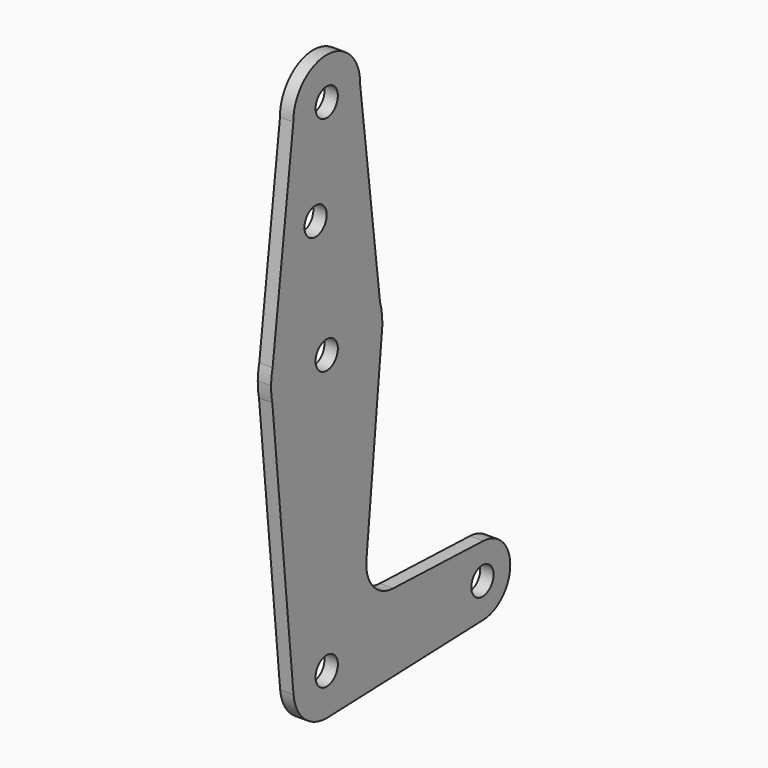
from build123d import *

# Parameters (mm, degrees)
F0_R     = 3.175
F1_DEPTH = 3.048


with BuildPart() as f1:
    # F0 (on Right) → F1 (new body)
    with BuildSketch(Plane.YZ):
        with BuildLine():
            ThreePointArc((0.6773435479, -64.6379463686), (6.9705567315, -61.6283596709), (9.525, -55.1370605826))
            ThreePointArc((9.525, -55.1370605826), (6.9705567315, -48.6457614944), (0.6773435479, -45.6361747967))
            Line((0.6773435479, -45.6361747967), (0, -45.6120605826))
            ThreePointArc((0, -45.6120605826), (-7.0587369412, -48.7417609184), (-9.4787901291, -56.0741639328))
            ThreePointArc((-9.4787901291, -56.0741639328), (-6.3952996642, -62.1957975238), (0, -64.6620605826))
            Line((0, -64.6620605826), (0.6773435479, -64.6379463686))
        make_face()
        with Locations((0, -55.1370605826)):
            Circle(F0_R, mode=Mode.SUBTRACT)
        with BuildLine():
            ThreePointArc((0.6773435479, -45.6361747967), (6.9705567315, -48.6457614944), (9.525, -55.1370605826))
            Line((9.525, -55.1370605826), (36.5125, -55.1370605826))
            ThreePointArc((36.5125, -55.1370605826), (38.9380895153, -49.4254277987), (44.7324052746, -47.2045859681))
            Line((44.7324052746, -47.2045859681), (18.9622864446, -46.2871399204))
            ThreePointArc((18.9622864446, -46.2871399204), (13.2560088734, -43.5703522208), (11.3345374572, -37.5495145115))
            Line((11.3345374572, -37.5495145115), (15.6952781554, 5.980951041))
            ThreePointArc((15.6952781554, 5.980951041), (0.4897142026, -7.504505399), (-15.5185167862, 5.017605091))
            Line((-15.5185167862, 5.017605091), (-9.4787901291, -56.0741639328))
            ThreePointArc((-9.4787901291, -56.0741639328), (-7.0587369412, -48.7417609184), (0, -45.6120605826))
            ThreePointArc((0, -45.6120605826), (0.3388863295, -45.6180910451), (0.6773435479, -45.6361747967))
        make_face()
        with BuildLine():
            Line((36.5125, -55.1370605826), (9.525, -55.1370605826))
            ThreePointArc((9.525, -55.1370605826), (6.9705567315, -61.6283596709), (0.6773435479, -64.6379463686))
            Line((0.6773435479, -64.6379463686), (44.7324052746, -63.0695351972))
            ThreePointArc((44.7324052746, -63.0695351972), (38.9380895153, -60.8486933666), (36.5125, -55.1370605826))
        make_face()
        with BuildLine():
            ThreePointArc((44.7324052746, -47.2045859681), (38.9380895153, -49.4254277987), (36.5125, -55.1370605826))
            ThreePointArc((36.5125, -55.1370605826), (38.9380895153, -60.8486933666), (44.7324052746, -63.0695351972))
            ThreePointArc((44.7324052746, -63.0695351972), (50.1616327839, -60.6489710674), (52.3875, -55.1370605826))
            ThreePointArc((52.3875, -55.1370605826), (50.1616327839, -49.6251500979), (44.7324052746, -47.2045859681))
        make_face()
        with BuildLine():
            ThreePointArc((47.625, -55.1370605826), (44.45, -58.3120605826), (41.275, -55.1370605826))
            ThreePointArc((41.275, -55.1370605826), (44.45, -51.9620605826), (47.625, -55.1370605826))
        make_face(mode=Mode.SUBTRACT)
        with BuildLine():
            ThreePointArc((0, -64.6620605826), (0.3388863295, -64.6560301201), (0.6773435479, -64.6379463686))
            Line((0.6773435479, -64.6379463686), (0, -64.6620605826))
        make_face()
        with BuildLine():
            Line((-15.8731575899, 8.6047929382), (-15.5185167862, 5.017605091))
            ThreePointArc((-15.5185167862, 5.017605091), (0.4897142026, -7.504505399), (15.6952781554, 5.980951041))
            Line((15.6952781554, 5.980951041), (15.8558898592, 7.5842342268))
            Line((15.8558898592, 7.5842342268), (15.1941353847, 12.9622735988))
            ThreePointArc((15.1941353847, 12.9622735988), (-0.4660984971, 24.2310954914), (-15.437900841, 12.0625127204))
            Line((-15.437900841, 12.0625127204), (-15.8731575899, 8.6047929382))
        make_face()
        with Locations((0, 8.3629394174)):
            Circle(F0_R, mode=Mode.SUBTRACT)
        with BuildLine():
            ThreePointArc((-15.8731575899, 8.6047929382), (-15.7979835485, 6.8011005004), (-15.5185167862, 5.017605091))
            Line((-15.5185167862, 5.017605091), (-15.8731575899, 8.6047929382))
        make_face()
        with BuildLine():
            Line((15.8558898592, 7.5842342268), (15.6952781554, 5.980951041))
            ThreePointArc((15.6952781554, 5.980951041), (15.795938719, 6.780553565), (15.8558898592, 7.5842342268))
        make_face()
        with BuildLine():
            ThreePointArc((-15.437900841, 12.0625127204), (-15.7507000333, 10.3456329039), (-15.8731575899, 8.6047929382))
            Line((-15.8731575899, 8.6047929382), (-15.437900841, 12.0625127204))
        make_face()
        with BuildLine():
            Line((15.1941353847, 12.9622735988), (15.8558898592, 7.5842342268))
            ThreePointArc((15.8558898592, 7.5842342268), (15.8702217457, 7.9734695946), (15.875, 8.3629394174))
            ThreePointArc((15.875, 8.3629394174), (15.703861376, 10.6876679788), (15.1941353847, 12.9622735988))
        make_face()
        with BuildLine():
            Line((-9.5242234197, 59.0413119092), (-15.437900841, 12.0625127204))
            ThreePointArc((-15.437900841, 12.0625127204), (-0.4660984971, 24.2310954914), (15.1941353847, 12.9622735988))
            Line((15.1941353847, 12.9622735988), (9.5242234197, 59.0413119092))
            ThreePointArc((9.5242234197, 59.0413119092), (0, 49.6379394174), (-9.5242234197, 59.0413119092))
        make_face()
        with Locations((-3.175, 36.5252)):
            Circle(F0_R, mode=Mode.SUBTRACT)
        with BuildLine():
            ThreePointArc((9.525, 59.1629394174), (-0.0608149937, 68.6877452703), (-9.5242234197, 59.0413119092))
            ThreePointArc((-9.5242234197, 59.0413119092), (0, 49.6379394174), (9.5242234197, 59.0413119092))
            ThreePointArc((9.5242234197, 59.0413119092), (9.524805853, 59.1021244237), (9.525, 59.1629394174))
        make_face()
        with Locations((0, 59.1629394174)):
            Circle(F0_R, mode=Mode.SUBTRACT)
    extrude(amount=F1_DEPTH)


solid = f1.part
